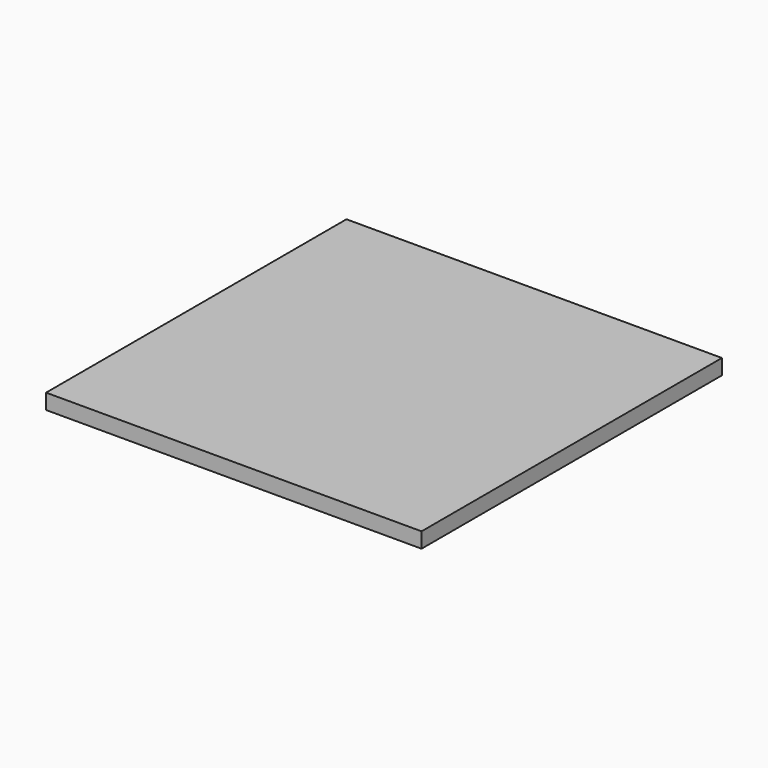
from build123d import *

# Parameters (mm, degrees)
F0_W     = 155.575
F0_H     = 155.575
F1_DEPTH = 6.35
F2_R     = 1.7272
F3_DEPTH = 4.7625


with BuildPart() as f1:
    # F0 (on Top) → F1 (new body)
    with BuildSketch(Plane.XY):
        with Locations((77.7875, -77.7875)):
            Rectangle(F0_W, F0_H)
    extrude(amount=F1_DEPTH)

    # F2 (on face) → F3 (cut)
    with BuildSketch(Plane(origin=(0, 0, 0), x_dir=(1, 0, 0), z_dir=(0, 0, -1))):
        with Locations((142.875, 136.525)):
            Circle(F2_R)
        with Locations((142.875, 19.05)):
            Circle(F2_R)
        with Locations((12.7, 19.05)):
            Circle(F2_R)
        with Locations((12.7, 136.525)):
            Circle(F2_R)
    extrude(amount=-F3_DEPTH, mode=Mode.SUBTRACT)


solid = f1.part
